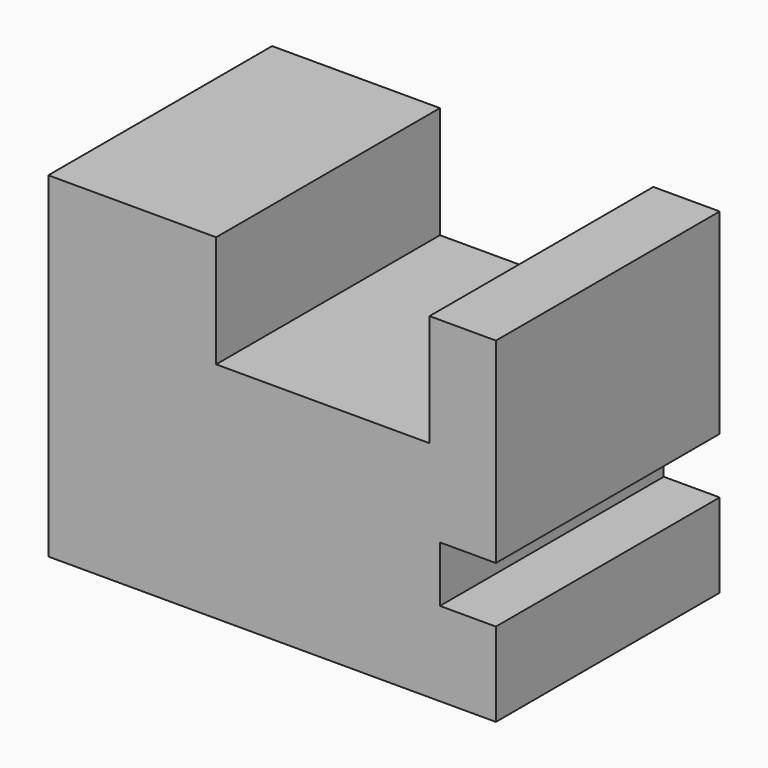
from build123d import *

# Parameters (mm, degrees)
F1_DEPTH = 25
F2_DEPTH = 25


with BuildPart() as f1:
    # F0 (on Front) → F1 (new body)
    with BuildSketch(Plane.XZ):
        Polygon((-50, 60), (-80, 60), (-80, 0), (0, 0), (0, 15), (-10, 15), (-10, 25), (0, 25), (0, 60), (-11.860458, 60), (-11.860458, 40), (-50, 40), align=None)
    extrude(amount=F1_DEPTH)

    # F1_face (on face) → F2 (join)
    with BuildSketch(Plane(origin=(-42.646123, -25, 26.379208), x_dir=(1, 0, 0), z_dir=(0, -1, 0))):
        Polygon((30.785664, 33.620792), (30.785664, 13.620792), (-7.353877, 13.620792), (-7.353877, 33.620792), (-37.353877, 33.620792), (-37.353877, -26.379208), (42.646123, -26.379208), (42.646123, -11.379208), (32.646123, -11.379208), (32.646123, -1.379208), (42.646123, -1.379208), (42.646123, 33.620792), align=None)
    extrude(amount=F2_DEPTH)


solid = f1.part
